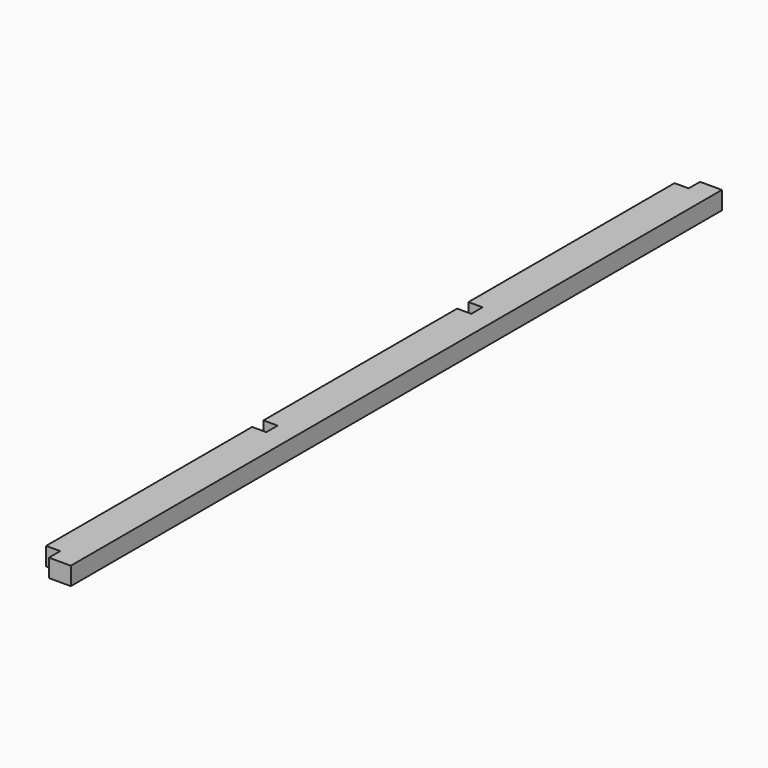
from build123d import *

# Parameters (mm, degrees)
F0_W     = 88.9
F0_H     = 44.45
F1_DEPTH = 2006.6
F2_W     = 34.925
F2_H     = 34.925
F3_DEPTH = 50.8


with BuildPart() as f1:
    # F0 (on Front) → F1 (new body)
    with BuildSketch(Plane.XZ):
        Rectangle(F0_W, F0_H)
    extrude(amount=F1_DEPTH)

    # F2 (on face) → F3 (cut)
    with BuildSketch(Plane.XY.offset(22.225)):
        with Locations((-26.9875, -17.4625)):
            Rectangle(F2_W, F2_H)
        with Locations((-26.9875, -1989.1375)):
            Rectangle(F2_W, F2_H)
        with Locations((-26.9875, -1319.2125)):
            Rectangle(F2_W, F2_H)
        with Locations((-26.9875, -687.3875)):
            Rectangle(F2_W, F2_H)
    extrude(amount=-F3_DEPTH, mode=Mode.SUBTRACT)


solid = f1.part
